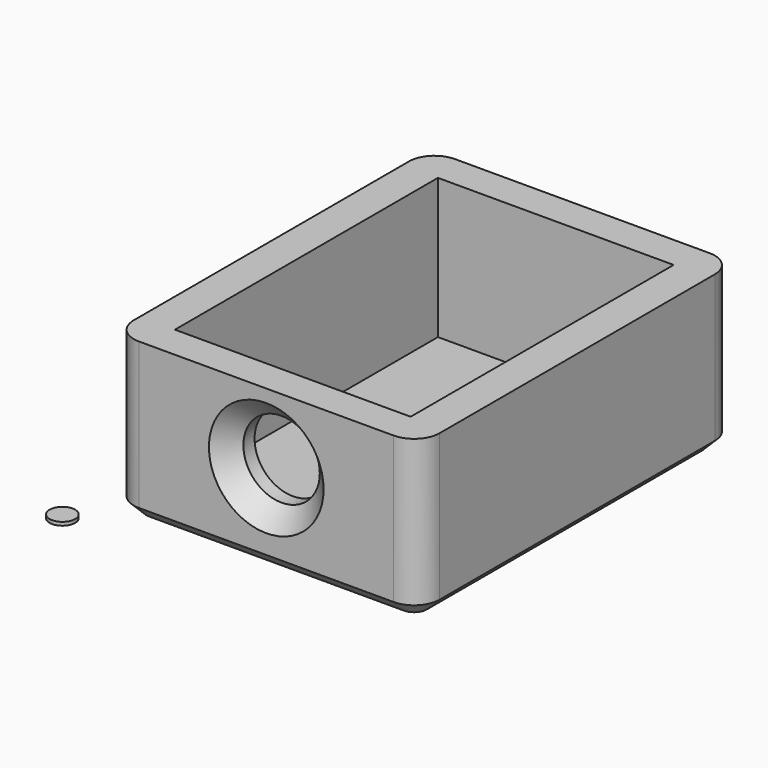
from build123d import *

# Parameters (mm, degrees)
SKETCH_W        = 24
SKETCH_H        = 31
PAD_DEPTH       = 12.5
SKETCH001_R     = 3
POCKET_DEPTH    = 3
SKETCH002_W     = 18.5
SKETCH002_H     = 25.8
POCKET001_DEPTH = 11
CHAMFER_SIZE    = 1.5
FILLET_R        = 2
FILLET001_R     = 2
FILLET002_R     = 2
FILLET003_R     = 2
CHAMFER001_SIZE = 1
SKETCH003_R     = 1
PAD001_DEPTH    = 0.27


with BuildPart() as chamfer001:
    # Sketch → Pad (new body)
    with BuildSketch(Plane.XY):
        Rectangle(SKETCH_W, SKETCH_H)
    extrude(amount=PAD_DEPTH)

    # Sketch001 → Pocket (cut)
    with BuildSketch(Plane.XZ.offset(15.5)):
        with Locations((0, 7)):
            Circle(SKETCH001_R)
    extrude(amount=-POCKET_DEPTH, mode=Mode.SUBTRACT)

    # Sketch002 → Pocket001 (cut)
    with BuildSketch(Plane.XY.offset(12.5)):
        Rectangle(SKETCH002_W, SKETCH002_H)
    extrude(amount=-POCKET001_DEPTH, mode=Mode.SUBTRACT)

    # Chamfer
    chamfer_edges = [chamfer001.edges().sort_by_distance(p)[0] for p in [
        (-3, -15.5, 7),
    ]]
    chamfer(chamfer_edges, length=CHAMFER_SIZE)

    # Fillet
    fillet_edges = [chamfer001.edges().sort_by_distance(p)[0] for p in [
        (12, -15.5, 6.25),
    ]]
    fillet(fillet_edges, radius=FILLET_R)

    # Fillet001
    fillet001_edges = [chamfer001.edges().sort_by_distance(p)[0] for p in [
        (-12, -15.5, 6.25),
    ]]
    fillet(fillet001_edges, radius=FILLET001_R)

    # Fillet002
    fillet002_edges = [chamfer001.edges().sort_by_distance(p)[0] for p in [
        (-12, 15.5, 6.25),
    ]]
    fillet(fillet002_edges, radius=FILLET002_R)

    # Fillet003
    fillet003_edges = [chamfer001.edges().sort_by_distance(p)[0] for p in [
        (12, 15.5, 6.25),
    ]]
    fillet(fillet003_edges, radius=FILLET003_R)

    # Chamfer001
    chamfer001_edges = [chamfer001.edges().sort_by_distance(p)[0] for p in [
        (-12, 0, 0),
    ]]
    chamfer(chamfer001_edges, length=CHAMFER001_SIZE)


with BuildPart() as pad001:
    # Sketch003 → Pad001 (new body)
    with BuildSketch(Plane.XY):
        with Locations((-14, -18)):
            Circle(SKETCH003_R)
    extrude(amount=PAD001_DEPTH)


solid = Compound([chamfer001.part, pad001.part])
